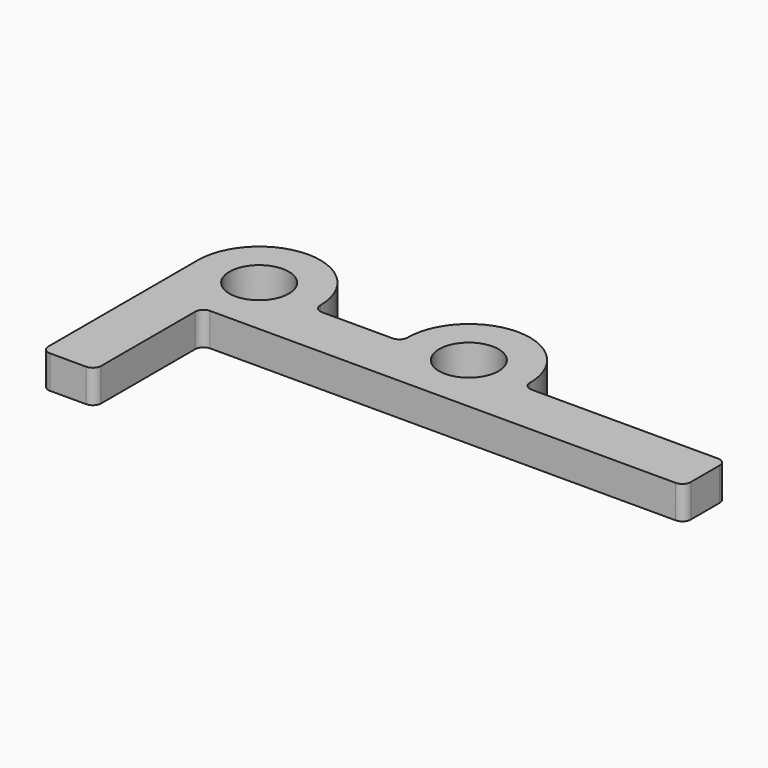
from build123d import *

# Parameters (mm, degrees)
SKETCH005_R = 1.8
PAD_DEPTH   = 2


with BuildPart() as part:
    # Sketch005 → Pad (new body)
    with BuildSketch(Plane.XY):
        with BuildLine():
            Line((121.287, -283.168), (121.287, -290.28))
            ThreePointArc((120.779, -290.788), (121.13821, -290.63921), (121.287, -290.28))
            Line((120.779, -290.788), (118.598, -290.788))
            ThreePointArc((118.09, -290.28), (118.23879, -290.63921), (118.598, -290.788))
            Line((118.09, -290.28), (118.09, -278.955))
            ThreePointArc((125.5, -278.955), (121.795, -275.25), (118.09, -278.955))
            ThreePointArc((125.5, -278.955), (125.64879, -279.31421), (126.008, -279.463))
            Line((126.008, -279.463), (130.282, -279.463))
            ThreePointArc((130.282, -279.463), (130.64121, -279.31421), (130.79, -278.955))
            ThreePointArc((138.2, -278.955), (134.495, -275.25), (130.79, -278.955))
            ThreePointArc((138.2, -278.955), (138.34879, -279.31421), (138.708, -279.463))
            Line((138.708, -279.463), (149.987, -279.463))
            ThreePointArc((150.495, -279.971), (150.34621, -279.61179), (149.987, -279.463))
            Line((150.495, -282.152), (150.495, -279.971))
            ThreePointArc((149.987, -282.66), (150.34621, -282.51121), (150.495, -282.152))
            Line((121.795, -282.66), (149.987, -282.66))
            ThreePointArc((121.795, -282.66), (121.43579, -282.80879), (121.287, -283.168))
        make_face()
        with Locations((121.795, -278.955)):
            Circle(SKETCH005_R, mode=Mode.SUBTRACT)
        with Locations((134.495, -278.955)):
            Circle(SKETCH005_R, mode=Mode.SUBTRACT)
    extrude(amount=PAD_DEPTH)


solid = part.part
